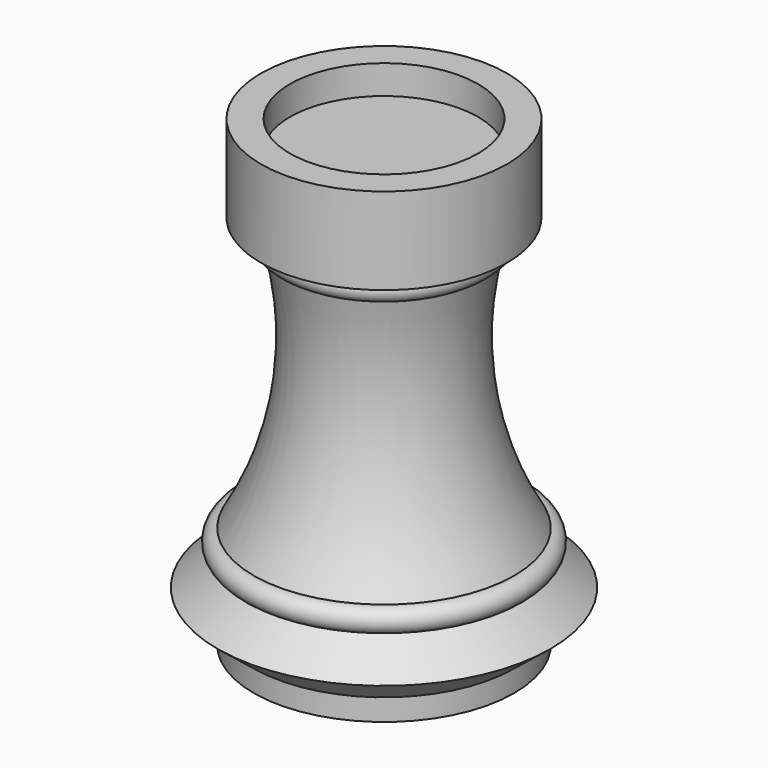
from build123d import *


with BuildPart() as f1:
    # F0 (on Front) → F1 (revolve)
    with BuildSketch(Plane.XZ):
        with BuildLine():
            Line((16.51, 76.2), (0, 76.2))
            Line((0, 76.2), (0, 0))
            Line((0, 0), (22.86, 0))
            Line((22.86, 0), (22.86, 3.81))
            Line((22.86, 3.81), (29.21, 8.89))
            Line((29.21, 8.89), (22.86, 13.97))
            ThreePointArc((22.86, 13.97), (24.9428, 16.0528), (22.86, 18.1356))
            ThreePointArc((22.86, 18.1356), (15.3891, 39.381321), (16.51, 61.8744))
            ThreePointArc((16.51, 61.8744), (18.5928, 63.9572), (16.51, 66.04))
            Line((16.51, 66.04), (21.59, 66.04))
            Line((21.59, 66.04), (21.59, 81.28))
            Line((21.59, 81.28), (16.51, 81.28))
            Line((16.51, 81.28), (16.51, 76.2))
        make_face()
    revolve(axis=Axis((0, 0, 38.1), (0, 0, 1)))


solid = f1.part
